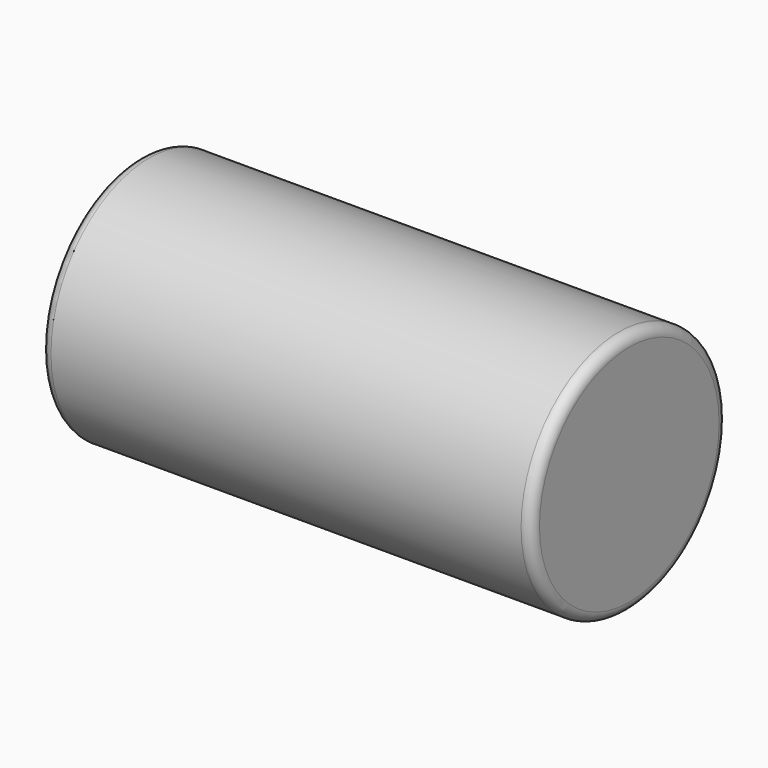
from build123d import *

# Parameters (mm, degrees)
F0_R          = 76.09774
F1_DEPTH      = 152.4
F1_DEPTH_BACK = 152.4
F2_R          = 6.35
F3_R          = 6.35


with BuildPart() as f1:
    # F0 (on Right) → F1 (new body, two sides)
    with BuildSketch(Plane.YZ) as f1_sk:
        Circle(F0_R)
    extrude(amount=F1_DEPTH)
    extrude(f1_sk.sketch, amount=-F1_DEPTH_BACK)

    # F2
    f2_edges = [f1.edges().sort_by_distance(p)[0] for p in [
        (152.4, -76.09774, 0),
    ]]
    fillet(f2_edges, radius=F2_R)

    # F3
    f3_edges = [f1.edges().sort_by_distance(p)[0] for p in [
        (-152.4, -76.09774, 0),
    ]]
    fillet(f3_edges, radius=F3_R)


solid = f1.part
